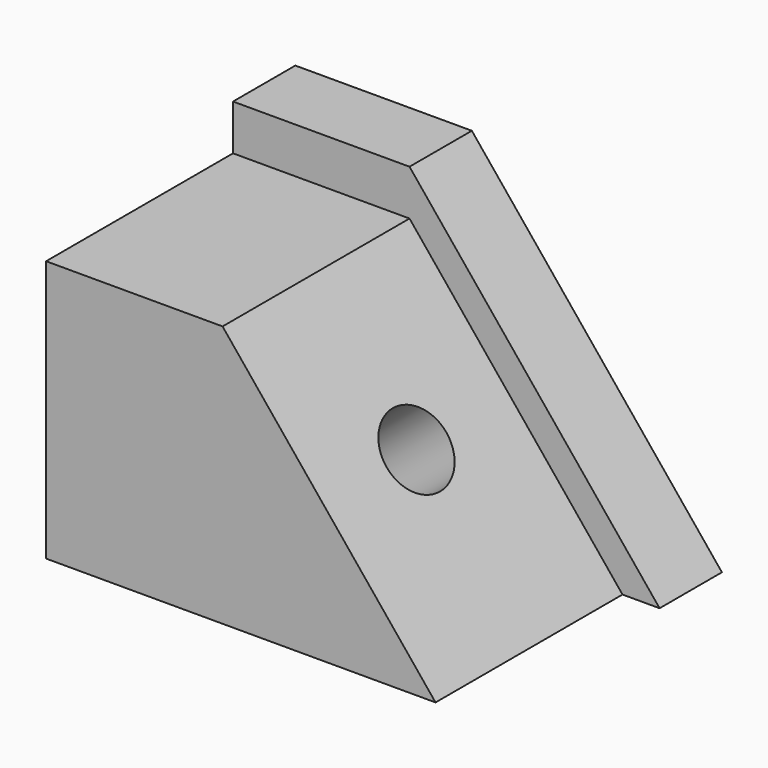
from build123d import *

# Parameters (mm, degrees)
F1_DEPTH = 76.2
F2_DEPTH = 25.4
F3_R     = 12.201191
F4_DEPTH = 50.8


with BuildPart() as f1:
    # F0 (on Front) → F1 (new body)
    with BuildSketch(Plane.XZ):
        Polygon((69.451064, -56.958791), (0, 28.405037), (-57.55366, 28.405037), (-57.55366, -56.958791), align=None)
    extrude(amount=F1_DEPTH)

    # F0 (on Front) → F2 (join)
    with BuildSketch(Plane.XZ):
        Polygon((69.451064, -56.958791), (0, 28.405037), (-57.55366, 28.405037), (-57.55366, -56.958791), align=None)
        Polygon((-57.55366, 28.405037), (0, 28.405037), (69.451064, -56.958791), (81.550552, -56.958791), (0, 43.276783), (-57.55366, 43.276783), align=None)
    extrude(amount=-F2_DEPTH)

    # F3 (on face) → F4 (cut)
    with BuildSketch(Plane(origin=(13.905559, 0, 11.313409), x_dir=(0, 1, 0), z_dir=(0.7757, 0, 0.631101))):
        with Locations((-38.1, -29.861083)):
            Circle(F3_R)
    extrude(amount=-F4_DEPTH, mode=Mode.SUBTRACT)


solid = f1.part
